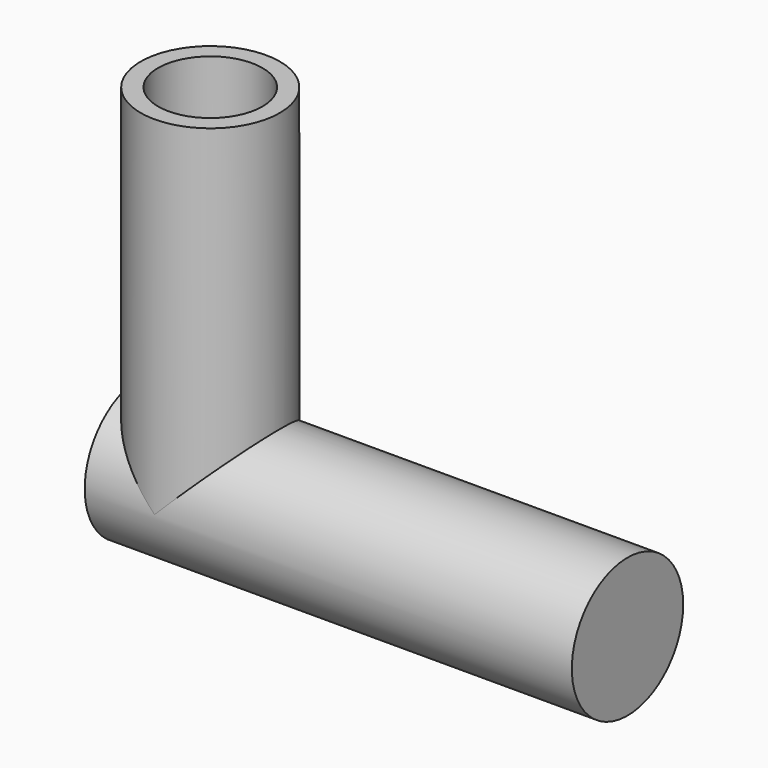
from build123d import *

# Parameters (mm, degrees)
F0_R          = 10
F1_DEPTH      = 40
F1_DEPTH_BACK = 10
F2_R          = 10
F3_DEPTH      = 50
F3_DEPTH_BACK = 20
F4_R          = 7.5
F5_DEPTH      = 35
F5_DEPTH_BACK = 25
F6_R          = 7.5
F7_DEPTH      = 50


with BuildPart() as f1:
    # F0 (on Top) → F1 (new body, two sides)
    with BuildSketch(Plane.XY) as f1_sk:
        with Locations((-9.956808, 0)):
            Circle(F0_R)
    extrude(amount=F1_DEPTH)
    extrude(f1_sk.sketch, amount=-F1_DEPTH_BACK)

    # F2 (on Right) → F3 (join, two sides)
    with BuildSketch(Plane.YZ) as f3_sk:
        with Locations((0, -10)):
            Circle(F2_R)
    extrude(amount=F3_DEPTH)
    extrude(f3_sk.sketch, amount=-F3_DEPTH_BACK)

    # F4 (on Right) → F5 (cut, two sides)
    with BuildSketch(Plane.YZ) as f5_sk:
        with Locations((0, -10)):
            Circle(F4_R)
    extrude(amount=F5_DEPTH, mode=Mode.SUBTRACT)
    extrude(f5_sk.sketch, amount=-F5_DEPTH_BACK, mode=Mode.SUBTRACT)

    # F6 (on face) → F7 (cut)
    with BuildSketch(Plane.XY.offset(40)):
        with Locations((-9.956808, 0)):
            Circle(F6_R)
    extrude(amount=-F7_DEPTH, mode=Mode.SUBTRACT)


solid = f1.part
